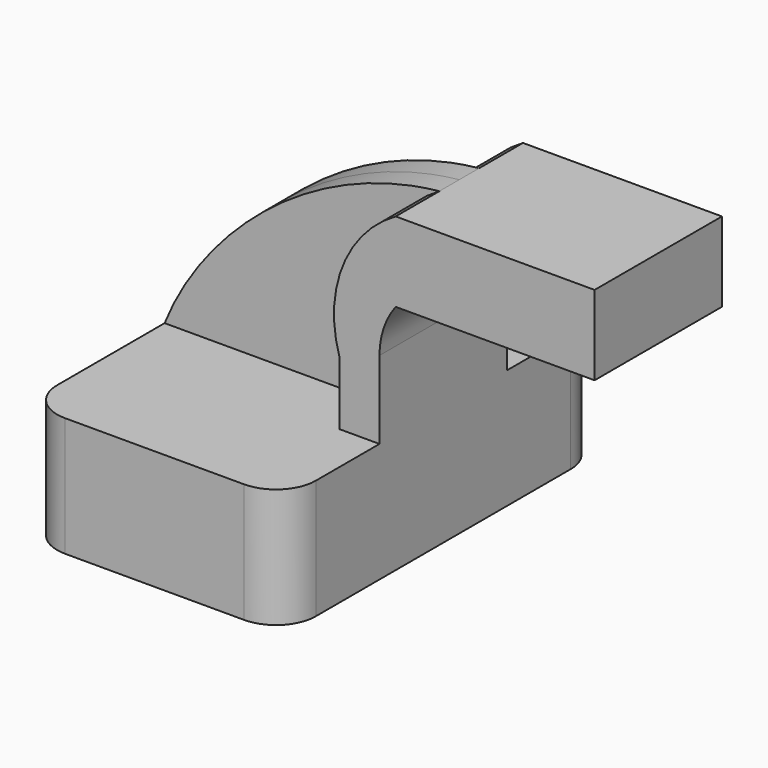
from build123d import *

# Parameters (mm, degrees)
F1_DEPTH = 63.5
F2_DEPTH = 25.4
F3_DEPTH = 7.9375
F4_R     = 12.7


with BuildPart() as f1:
    # F0 (on Front) → F1 (new body, symmetric)
    with BuildSketch(Plane.XZ):
        Polygon((-41.275, -19.05), (41.275, -19.05), (41.275, 19.05), (28.575, 19.05), (-41.275, 19.05), align=None)
    extrude(amount=F1_DEPTH, both=True)

    # F0 (on Front) → F2 (join, symmetric)
    with BuildSketch(Plane.XZ):
        with BuildLine():
            Line((28.575, 19.05), (41.275, 19.05))
            Line((41.275, 19.05), (41.275, 43.906411))
            ThreePointArc((41.275, 43.906411), (42.600833, 52.005452), (46.439918, 59.258983))
            Line((46.439918, 59.258983), (46.439918, 84.658983))
            ThreePointArc((46.439918, 84.658983), (29.442195, 65.035984), (28.575, 39.089256))
            Line((28.575, 39.089256), (28.575, 19.05))
        make_face()
        with BuildLine():
            Line((109.939918, 84.658983), (46.439918, 84.658983))
            Line((46.439918, 84.658983), (61.292269, 68.729509))
            ThreePointArc((61.292269, 68.729509), (53.018836, 65.322975), (46.439918, 59.258983))
            Line((46.439918, 59.258983), (109.939918, 59.258983))
            Line((109.939918, 59.258983), (109.939918, 84.658983))
        make_face()
        with BuildLine():
            Line((61.292269, 68.729509), (46.439918, 84.658983))
            Line((46.439918, 84.658983), (46.439918, 59.258983))
            ThreePointArc((46.439918, 59.258983), (53.018836, 65.322975), (61.292269, 68.729509))
        make_face()
    extrude(amount=F2_DEPTH, both=True)

    # F0 (on Front) → F3 (join, symmetric)
    with BuildSketch(Plane.XZ):
        with BuildLine():
            add(Edge.make_bspline(
                [(-41.275, 19.05), (-29.644612, 48.343893), (3.748323, 80.129104), (46.439918, 84.658983)],
                knots=[0, 0, 0, 0, 109.537416, 109.537416, 109.537416, 109.537416], degree=3))
            Line((-41.275, 19.05), (28.575, 19.05))
            Line((28.575, 19.05), (28.575, 39.089256))
            ThreePointArc((28.575, 39.089256), (29.442195, 65.035984), (46.439918, 84.658983))
        make_face()
    extrude(amount=F3_DEPTH, both=True)

    # F4
    f4_edges = [f1.edges().sort_by_distance(p)[0] for p in [
        (-41.275, -63.5, 0),
        (-41.275, 63.5, 0),
        (41.275, 63.5, 0),
        (41.275, -63.5, 0),
    ]]
    fillet(f4_edges, radius=F4_R)


solid = f1.part
